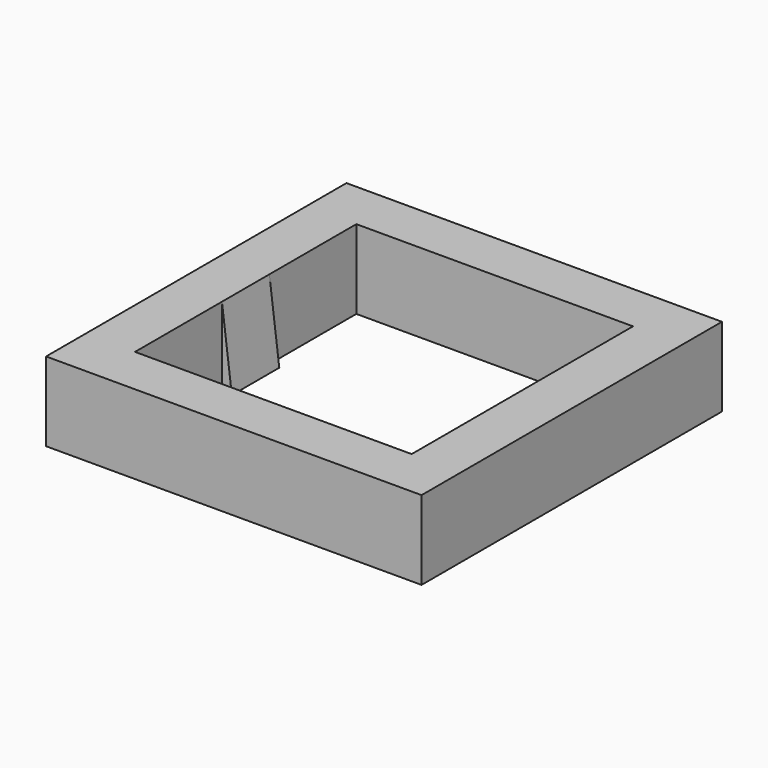
from build123d import *

# Parameters (mm, degrees)
F0_W     = 19
F0_H     = 19
F0_W_2   = 14
F0_H_2   = 14
F1_DEPTH = 4
F2_W     = 3
F2_H     = 4
F3_DEPTH = 0.5
F5_DEPTH = 3
F6_W     = 3
F6_H     = 4
F7_DEPTH = 0.5
F9_DEPTH = 3


with BuildPart() as f1:
    # F0 (on Top) → F1 (new body)
    with BuildSketch(Plane.XY):
        Rectangle(F0_W, F0_H)
        Rectangle(F0_W_2, F0_H_2, mode=Mode.SUBTRACT)
    extrude(amount=F1_DEPTH)

    # F2 (on face) → F3 (join)
    with BuildSketch(Plane.YZ.offset(-7)):
        with Locations((0, 2)):
            Rectangle(F2_W, F2_H)
    extrude(amount=F3_DEPTH)

    # F4 (on face) → F5 (cut, through all)
    with BuildSketch(Plane.XZ.offset(1.5)):
        Polygon((-6.5, 4), (-7, 4), (-6.5, 0), align=None)
    extrude(amount=-F5_DEPTH, mode=Mode.SUBTRACT)

    # F6 (on face) → F7 (join)
    with BuildSketch(Plane(origin=(7, 0, 0), x_dir=(0, -1, 0), z_dir=(-1, 0, 0))):
        with Locations((0, 2)):
            Rectangle(F6_W, F6_H)
    extrude(amount=F7_DEPTH)

    # F8 (on face) → F9 (cut, through all)
    with BuildSketch(Plane.XZ.offset(1.5)):
        Polygon((6.5, 4), (6.5, 0), (7, 4), align=None)
    extrude(amount=-F9_DEPTH, mode=Mode.SUBTRACT)


solid = f1.part
